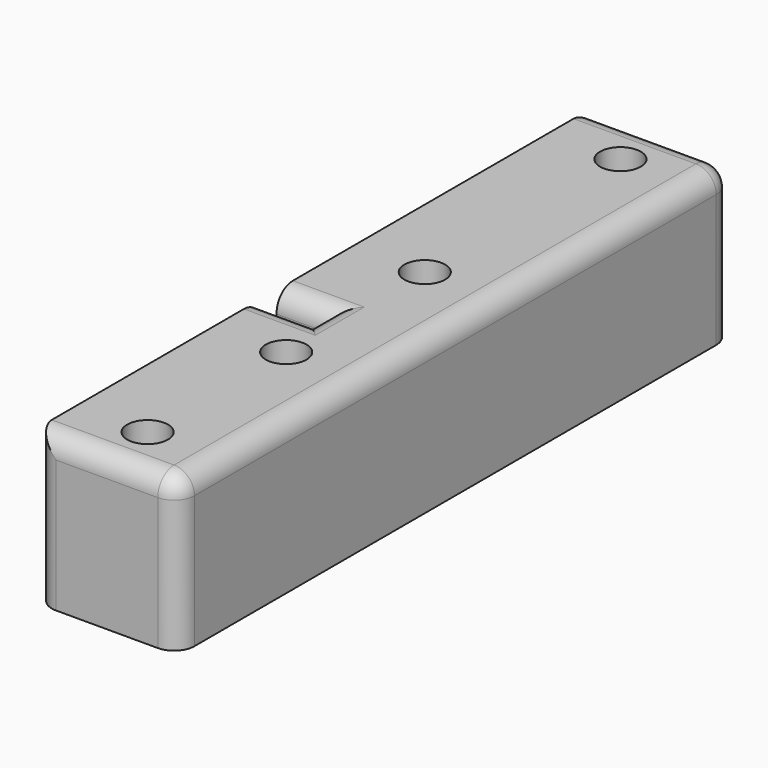
from build123d import *

# Parameters (mm, degrees)
F0_W     = 14
F0_H     = 28
F0_R     = 2
F1_DEPTH = 15
F0_H_2   = 38
F2_W     = 2.6328479201
F2_H     = 15
F3_DEPTH = 9
F5_DEPTH = 5
F7_DEPTH = 5
F8_R     = 2


with BuildPart() as f1:
    # F0 (on Top) → F1 (new body)
    with BuildSketch(Plane.XY):
        with Locations((7, 14)):
            Rectangle(F0_W, F0_H)
        with Locations((7, 5)):
            Circle(F0_R, mode=Mode.SUBTRACT)
        with Locations((7, 22)):
            Circle(F0_R, mode=Mode.SUBTRACT)
    extrude(amount=F1_DEPTH)



with BuildPart() as f1b:
    # F0 (on Top) → F1, piece 2 (new body)
    with BuildSketch(Plane.XY):
        with Locations((7, 49)):
            Rectangle(F0_W, F0_H_2)
        with Locations((7, 39)):
            Circle(F0_R, mode=Mode.SUBTRACT)
        with Locations((7, 63)):
            Circle(F0_R, mode=Mode.SUBTRACT)
    extrude(amount=F1_DEPTH)


with BuildPart() as f1_1:
    add(f1.part)

    add(f1b.part)  # F3 merges F1b
    # F2 (on face) → F3 (join)
    with BuildSketch(Plane.YZ.offset(14)):
        with Locations((29.31642396, 7.5)):
            Rectangle(F2_W, F2_H)
    extrude(amount=-F3_DEPTH)

    # F4 (on face) → F5 (cut)
    with BuildSketch(Plane(origin=(0, 0, 0), x_dir=(0, -1, 0), z_dir=(-1, 0, 0))):
        Polygon((-28, 15), (-28, 0), (-27.5, 15), align=None)
    extrude(amount=-F5_DEPTH, mode=Mode.SUBTRACT)

    # F6 (on face) → F7 (join)
    with BuildSketch(Plane(origin=(0, 0, 0), x_dir=(0, -1, 0), z_dir=(-1, 0, 0))):
        Polygon((-29.5, 15), (-30, 15), (-30, 0), align=None)
    extrude(amount=-F7_DEPTH)

    # F8
    f8_edges = [f1_1.edges().sort_by_distance(p)[0] for p in [
        (2.5, 29.5, 15),
        (5, 28.5, 15),
        (2.5, 27.5, 15),
        (7, 0, 15),
        (14, 34, 15),
        (7, 68, 15),
        (14, 0, 7.5),
        (14, 68, 7.5),
        (0, 68, 7.5),
        (0, 0, 7.5),
    ]]
    fillet(f8_edges, radius=F8_R)


solid = f1_1.part
